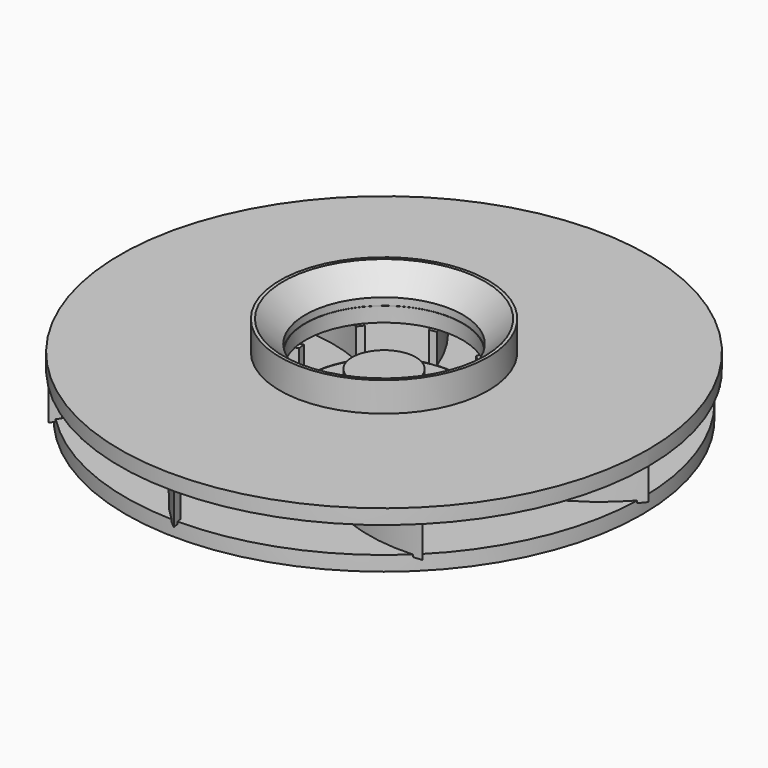
from build123d import *

# Parameters (mm, degrees)
F0_R      = 35
F1_DEPTH  = 2
F2_R      = 5
F3_DEPTH  = 4
F4_W      = 1.5
F4_H      = 8.0229806336
F7_COUNT  = 8
F8_W      = 26.6654435545
F8_H      = 7.6421163976
F10_R     = 35.7945573746
F10_R_2   = 10.639493897
F11_DEPTH = 2
F12_R     = 7.8850304464
F13_DEPTH = 25
F14_R     = 14.11317868
F14_R_2   = 10.6813839673
F15_DEPTH = 4
F16_SIZE  = 3


with BuildPart() as f1:
    # F0 (on Top) → F1 (new body)
    with BuildSketch(Plane.XY):
        Circle(F0_R)
    extrude(amount=F1_DEPTH)



with BuildPart() as f3:
    # F2 (on face) → F3 (new body)
    with BuildSketch(Plane.XY.offset(2)):
        Circle(F2_R)
    extrude(amount=F3_DEPTH)


with BuildPart() as f6:
    # F6: sweep along a path in F5
    with BuildLine(Plane.XY) as f6_path:
        ThreePointArc((0, 0), (-8.1347441665, -17.5274070352), (0, -35.0548140705))
    # F4 (on Front) → F6 (sweep)
    with BuildSketch(Plane.XZ):
        with Locations((0, 5.7041863911)):
            Rectangle(F4_W, F4_H)
    sweep(path=f6_path.line)


with BuildPart() as f1_1:
    add(f1.part)

    add(f3.part)  # F7 merges F3

    add(f6.part)  # F7 merges F6
    # F7: F6 ×8 about axis
    f7_axis = Axis((0, 0, 6), (0, 0, 1))
    for i in range(1, F7_COUNT):
        add(f6.part.rotate(f7_axis, i * 360 / F7_COUNT))

    # F8 (on Front) → F9 (revolve, cut)
    with BuildSketch(Plane.XZ):
        with Locations((23.4964704141, 9.8134223372)):
            Rectangle(F8_W, F8_H)
        Polygon((10.1637486368, 5.9923641384), (10.1637486368, 13.634480536), (4.3031405658, 13.634480536), (4.3031405658, 1.9518490881), (10.1637486368, 1.9518490881), align=None)
    revolve(axis=Axis((0, 0, 0), (0, 0, 1)), mode=Mode.SUBTRACT)

    # F10 (on face) → F11 (join)
    with BuildSketch(Plane.XY.offset(5.9923641384)):
        Circle(F10_R)
        Circle(F10_R_2, mode=Mode.SUBTRACT)
    extrude(amount=F11_DEPTH)

    # F12 (on face) → F13 (cut)
    with BuildSketch(Plane.XY.offset(6)):
        Circle(F12_R)
        with BuildLine():
            ThreePointArc((-0.4521737471, -4.2793174258), (-1.6150666235, -3.9885559455), (-2.6526354387, -3.3882951404))
            ThreePointArc((-2.6526354387, -3.3882951404), (-1.6440902169, -2.2260491927), (-0.5583723561, -1.1355466324))
            ThreePointArc((-0.5583723561, -1.1355466324), (-0.5580653725, -2.7092153878), (-0.4521737471, -4.2793174258))
        make_face(mode=Mode.SUBTRACT)
        with BuildLine():
            ThreePointArc((-3.3456694935, -2.7061992478), (-3.9623595177, -1.6783103947), (-4.2715829771, -0.5201899637))
            ThreePointArc((-4.2715829771, -0.5201899637), (-2.7366018207, -0.4115071382), (-1.1977816036, -0.4081238447))
            ThreePointArc((-1.1977816036, -0.4081238447), (-2.3103163817, -1.5210927632), (-3.3456694935, -2.7061992478))
        make_face(mode=Mode.SUBTRACT)
        with BuildLine():
            ThreePointArc((2.7061992478, -3.3456694935), (1.6783103947, -3.9623595177), (0.5201899637, -4.2715829771))
            ThreePointArc((0.5201899637, -4.2715829771), (0.4115071382, -2.7366018207), (0.4081238447, -1.1977816036))
            ThreePointArc((0.4081238447, -1.1977816036), (1.5210927632, -2.3103163817), (2.7061992478, -3.3456694935))
        make_face(mode=Mode.SUBTRACT)
        with BuildLine():
            ThreePointArc((4.2793174258, -0.4521737471), (3.9885559455, -1.6150666235), (3.3882951404, -2.6526354387))
            ThreePointArc((3.3882951404, -2.6526354387), (2.2260491927, -1.6440902169), (1.1355466324, -0.5583723561))
            ThreePointArc((1.1355466324, -0.5583723561), (2.7092153878, -0.5580653725), (4.2793174258, -0.4521737471))
        make_face(mode=Mode.SUBTRACT)
        with BuildLine():
            ThreePointArc((-4.2793174258, 0.4521737471), (-3.9885559455, 1.6150666235), (-3.3882951404, 2.6526354387))
            ThreePointArc((-3.3882951404, 2.6526354387), (-2.2260491927, 1.6440902169), (-1.1355466324, 0.5583723561))
            ThreePointArc((-1.1355466324, 0.5583723561), (-2.7092153878, 0.5580653725), (-4.2793174258, 0.4521737471))
        make_face(mode=Mode.SUBTRACT)
        with BuildLine():
            ThreePointArc((-2.7061992478, 3.3456694935), (-1.6783103947, 3.9623595177), (-0.5201899637, 4.2715829771))
            ThreePointArc((-0.5201899637, 4.2715829771), (-0.4115071382, 2.7366018207), (-0.4081238447, 1.1977816036))
            ThreePointArc((-0.4081238447, 1.1977816036), (-1.5210927632, 2.3103163817), (-2.7061992478, 3.3456694935))
        make_face(mode=Mode.SUBTRACT)
        with BuildLine():
            ThreePointArc((3.3456694935, 2.7061992478), (3.9623595177, 1.6783103947), (4.2715829771, 0.5201899637))
            ThreePointArc((4.2715829771, 0.5201899637), (2.7366018207, 0.4115071382), (1.1977816036, 0.4081238447))
            ThreePointArc((1.1977816036, 0.4081238447), (2.3103163817, 1.5210927632), (3.3456694935, 2.7061992478))
        make_face(mode=Mode.SUBTRACT)
        with BuildLine():
            ThreePointArc((0.4521737471, 4.2793174258), (1.6150666235, 3.9885559455), (2.6526354387, 3.3882951404))
            ThreePointArc((2.6526354387, 3.3882951404), (1.6440902169, 2.2260491927), (0.5583723561, 1.1355466324))
            ThreePointArc((0.5583723561, 1.1355466324), (0.5580653725, 2.7092153878), (0.4521737471, 4.2793174258))
        make_face(mode=Mode.SUBTRACT)
    extrude(amount=F13_DEPTH, mode=Mode.SUBTRACT)

    # F14 (on face) → F15 (join)
    with BuildSketch(Plane.XY.offset(7.9923641384)):
        Circle(F14_R)
        Circle(F14_R_2, mode=Mode.SUBTRACT)
    extrude(amount=F15_DEPTH)

    # F16
    f16_edges = [f1_1.edges().sort_by_distance(p)[0] for p in [
        (-10.681384, 0, 11.992364),
    ]]
    chamfer(f16_edges, length=F16_SIZE)


solid = f1_1.part
